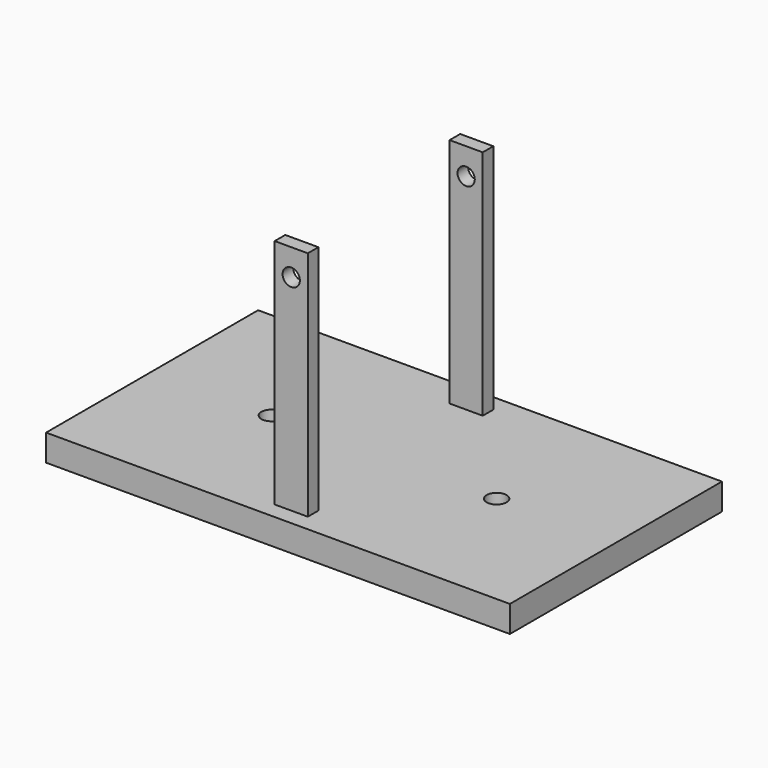
from build123d import *

# Parameters (mm, degrees)
SKETCH_W        = 70
SKETCH_H        = 40
PAD_DEPTH       = 4
SKETCH001_W     = 5
SKETCH001_H     = 2
PAD001_DEPTH    = 35
SKETCH002_R     = 1.3
POCKET_DEPTH    = 37
SKETCH003_R     = 1.5
POCKET001_DEPTH = 5


with BuildPart() as part:
    # Sketch → Pad (new body)
    with BuildSketch(Plane.XY):
        with Locations((35, 20)):
            Rectangle(SKETCH_W, SKETCH_H)
    extrude(amount=PAD_DEPTH)

    # Sketch001 (on Face6 of Pad) → Pad001 (join)
    with BuildSketch(Plane.XY.offset(4)):
        with Locations((35, 36.5)):
            Rectangle(SKETCH001_W, SKETCH001_H)
        with Locations((35, 3.5)):
            Rectangle(SKETCH001_W, SKETCH001_H)
    extrude(amount=PAD001_DEPTH)

    # Sketch002 (on Face8 of Pad001) → Pocket (cut)
    with BuildSketch(Plane.XZ.offset(-2.5)):
        with Locations((35, 35)):
            Circle(SKETCH002_R)
    extrude(amount=-POCKET_DEPTH, mode=Mode.SUBTRACT)

    # Sketch003 (on Face4 of Pocket) → Pocket001 (cut)
    with BuildSketch(Plane(origin=(0, 0, 0), x_dir=(1, 0, 0), z_dir=(0, 0, -1))):
        with Locations((18, -20)):
            Circle(SKETCH003_R)
        with Locations((52, -20)):
            Circle(SKETCH003_R)
    extrude(amount=-POCKET001_DEPTH, mode=Mode.SUBTRACT)


solid = part.part
